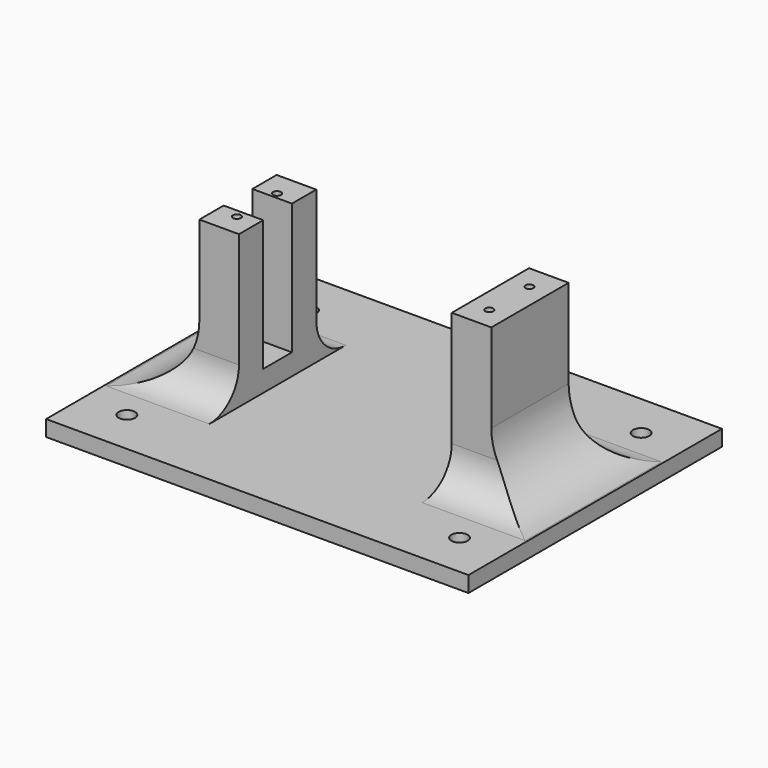
from build123d import *

# Parameters (mm, degrees)
SKETCH078_W     = 80
SKETCH078_H     = 60
PAD029_DEPTH    = 3
SKETCH079_W     = 7.5
SKETCH079_H     = 18.3
PAD030_DEPTH    = 28.8
SKETCH080_R     = 1.55
POCKET038_DEPTH = 5
SKETCH081_R     = 0.75
POCKET039_DEPTH = 15
FILLET024_R     = 12
FILLET025_R     = 7
SKETCH082_W     = 19.5
SKETCH082_H     = 6.8
POCKET040_DEPTH = 24.8


with BuildPart() as part:
    # Sketch078 → Pad029 (new body)
    with BuildSketch(Plane.XY):
        with Locations((40, 30)):
            Rectangle(SKETCH078_W, SKETCH078_H)
    extrude(amount=PAD029_DEPTH)

    # Sketch079 (on Face6 of Pad029) → Pad030 (join)
    with BuildSketch(Plane.XY.offset(3)):
        with Locations((16.1, 30)):
            Rectangle(SKETCH079_W, SKETCH079_H)
        with Locations((63.9, 30)):
            Rectangle(SKETCH079_W, SKETCH079_H)
    extrude(amount=PAD030_DEPTH)

    # Sketch080 (on Face5 of Pad030) → Pocket038 (cut)
    with BuildSketch(Plane.XY.offset(3)):
        with Locations((71.5, 51.5)):
            Circle(SKETCH080_R)
        with Locations((8.5, 51.5)):
            Circle(SKETCH080_R)
        with Locations((71.5, 8.5)):
            Circle(SKETCH080_R)
        with Locations((8.5, 8.5)):
            Circle(SKETCH080_R)
    extrude(amount=-POCKET038_DEPTH, mode=Mode.SUBTRACT)

    # Sketch081 (on Face19 of Pocket038) → Pocket039 (cut)
    with BuildSketch(Plane.XY.offset(31.8)):
        with Locations((16.1, 34.55)):
            Circle(SKETCH081_R)
        with Locations((16.1, 25.05)):
            Circle(SKETCH081_R)
        with Locations((63.9, 34.55)):
            Circle(SKETCH081_R)
        with Locations((63.9, 25.05)):
            Circle(SKETCH081_R)
    extrude(amount=-POCKET039_DEPTH, mode=Mode.SUBTRACT)

    # Fillet024
    fillet024_edges = [part.edges().sort_by_distance(p)[0] for p in [
        (12.35, 30, 3),
        (67.65, 30, 3),
    ]]
    fillet(fillet024_edges, radius=FILLET024_R)

    # Fillet025
    fillet025_edges = [part.edges().sort_by_distance(p)[0] for p in [
        (16.1, 20.85, 3),
        (63.9, 20.85, 3),
        (63.9, 39.15, 3),
        (16.1, 39.15, 3),
    ]]
    fillet(fillet025_edges, radius=FILLET025_R)

    # Sketch082 (on Face19 of Pocket039) → Pocket040 (cut)
    with BuildSketch(Plane.XY.offset(31.8)):
        with Locations((10.1, 30)):
            Rectangle(SKETCH082_W, SKETCH082_H)
    extrude(amount=-POCKET040_DEPTH, mode=Mode.SUBTRACT)


solid = part.part
